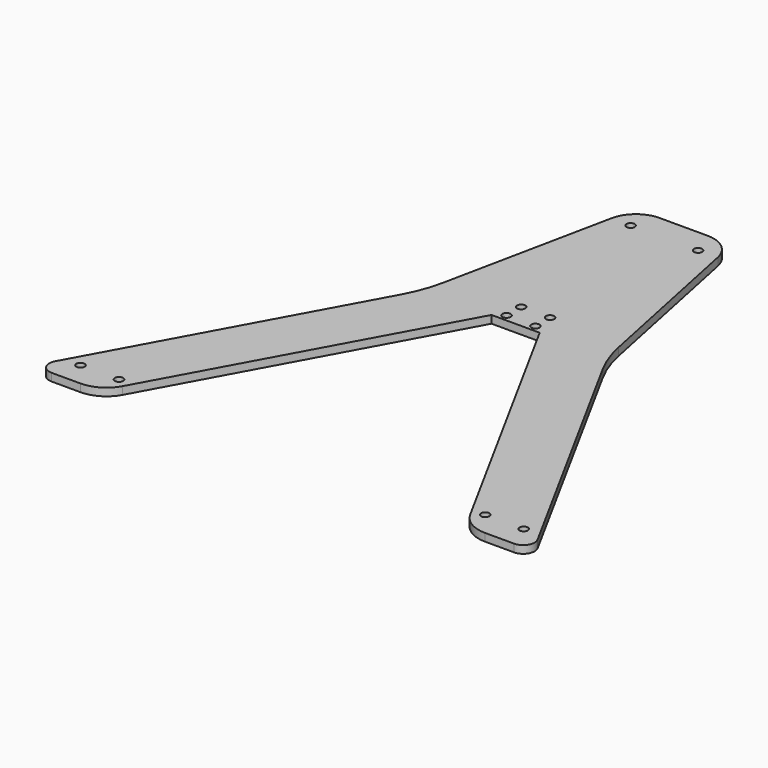
from build123d import *

# Parameters (mm, degrees)
SKETCH_R  = 4.3
PAD_DEPTH = 8


with BuildPart() as part:
    # Sketch → Pad (new body)
    with BuildSketch(Plane.XY):
        with BuildLine():
            Line((20, 0), (50, 0))
            ThreePointArc((50, 0), (67.201528, 4.717883), (79.589256, 17.551244))
            Line((79.589256, 17.551244), (235, 302))
            Line((235, 302), (285, 302))
            Line((285, 302), (440.410744, 17.551244))
            ThreePointArc((440.410744, 17.551244), (452.798472, 4.717883), (470, 0))
            Line((470, 0), (500, 0))
            ThreePointArc((500, 0), (510.203305, 5.811034), (510.410744, 17.551244))
            Line((510.410744, 17.551244), (364.589256, 284.448756))
            ThreePointArc((350.956802, 321.58705), (356.39416, 302.511758), (364.589256, 284.448756))
            Line((350.956802, 321.58705), (315.053998, 495.516187))
            ThreePointArc((315.053998, 495.516187), (304.382337, 513.104291), (285, 520))
            Line((235, 520), (285, 520))
            ThreePointArc((235, 520), (215.617663, 513.104291), (204.946002, 495.516187))
            Line((204.946002, 495.516187), (169.043198, 321.58705))
            ThreePointArc((155.410744, 284.448756), (163.60584, 302.511758), (169.043198, 321.58705))
            Line((155.410744, 284.448756), (9.589256, 17.551244))
            ThreePointArc((9.589256, 17.551244), (9.796695, 5.811034), (20, 0))
        make_face()
        with Locations((245, 328)):
            Circle(SKETCH_R, mode=Mode.SUBTRACT)
        with Locations((275, 328)):
            Circle(SKETCH_R, mode=Mode.SUBTRACT)
        with Locations((275, 309)):
            Circle(SKETCH_R, mode=Mode.SUBTRACT)
        with Locations((245, 309)):
            Circle(SKETCH_R, mode=Mode.SUBTRACT)
        with Locations((490, 25)):
            Circle(SKETCH_R, mode=Mode.SUBTRACT)
        with Locations((450, 25)):
            Circle(SKETCH_R, mode=Mode.SUBTRACT)
        with Locations((70, 25)):
            Circle(SKETCH_R, mode=Mode.SUBTRACT)
        with Locations((30, 25)):
            Circle(SKETCH_R, mode=Mode.SUBTRACT)
        with Locations((225, 495)):
            Circle(SKETCH_R, mode=Mode.SUBTRACT)
        with Locations((295, 495)):
            Circle(SKETCH_R, mode=Mode.SUBTRACT)
    extrude(amount=PAD_DEPTH)


solid = part.part
